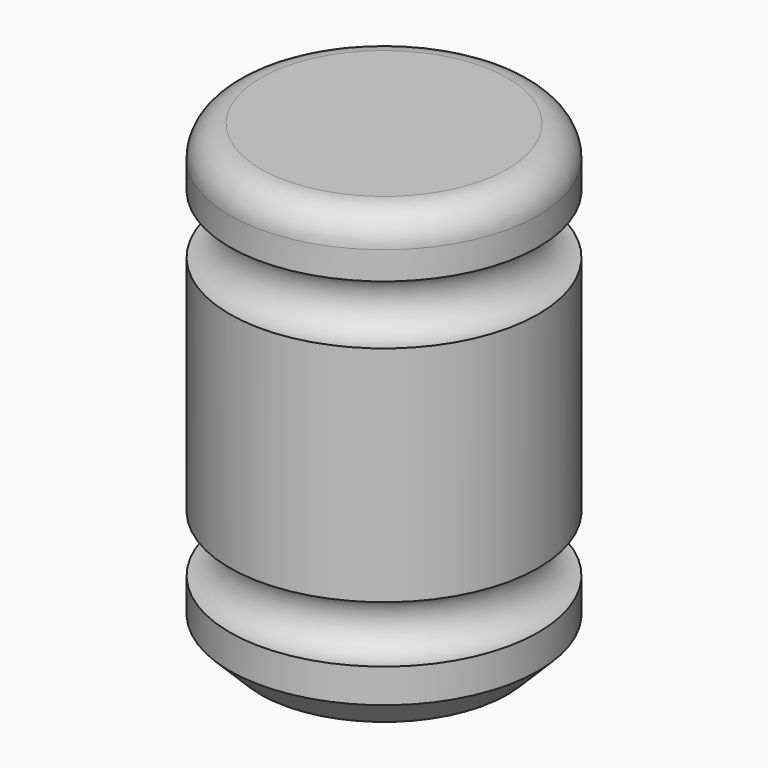
from build123d import *

# Parameters (mm, degrees)
F2_R    = 5.08
F3_SIZE = 5.08


with BuildPart() as f1:
    # F0 (on Front) → F1 (revolve)
    with BuildSketch(Plane.XZ):
        with BuildLine():
            Line((-25.4, 0), (0, 0))
            Line((0, 0), (0, 10.6707542909))
            ThreePointArc((0, 10.6707542909), (-4.6695087331, 15.340263024), (0, 20.0097717571))
            Line((0, 20.0097717571), (0, 56.8024416143))
            ThreePointArc((0, 56.8024416143), (-4.8593978709, 61.6618394852), (0, 66.521237356))
            Line((0, 66.521237356), (0, 76.2))
            Line((0, 76.2), (-25.4, 76.2))
            Line((-25.4, 76.2), (-25.4, 0))
        make_face()
    revolve(axis=Axis((-25.4, 0, 38.1), (0, 0, 1)))

    # F2
    f2_edges = [f1.edges().sort_by_distance(p)[0] for p in [
        (-50.8, 0, 76.2),
    ]]
    fillet(f2_edges, radius=F2_R)

    # F3
    f3_edges = [f1.edges().sort_by_distance(p)[0] for p in [
        (-50.8, 0, 0),
    ]]
    chamfer(f3_edges, length=F3_SIZE)


solid = f1.part
